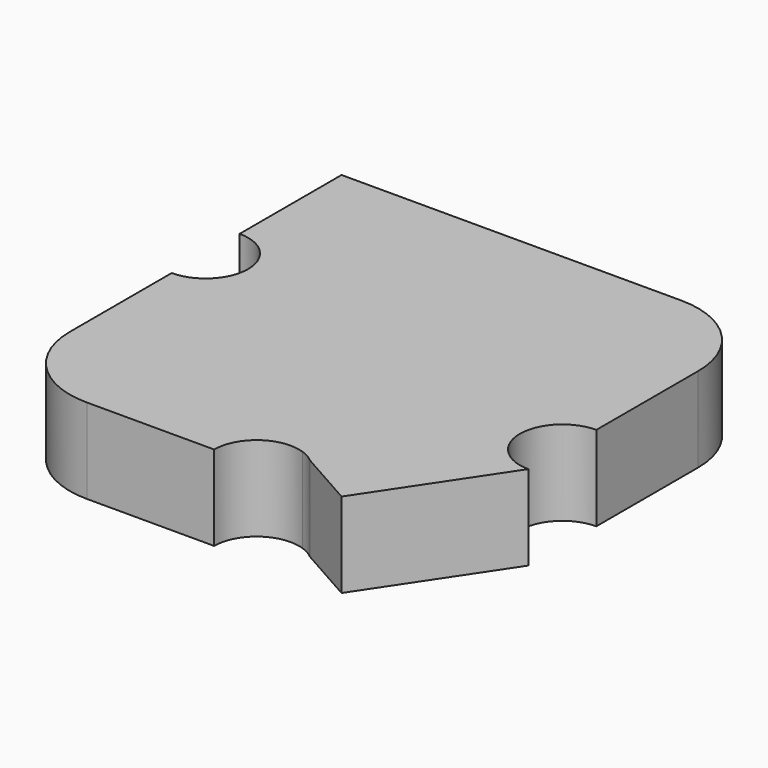
from build123d import *

# Parameters (mm, degrees)
F1_DEPTH = 10


with BuildPart() as f1:
    # F0 (on Top) → F1 (new body)
    with BuildSketch(Plane.XY):
        with BuildLine():
            ThreePointArc((25, 15), (22.071068, 22.071068), (15, 25))
            Line((15, 25), (-25, 25))
            Line((-25, 25), (-25, 10))
            ThreePointArc((-25, 10), (-20, 5), (-25, 0))
            Line((-25, 0), (-25, -15))
            ThreePointArc((-25, -15), (-22.071068, -22.071068), (-15, -25))
            Line((-15, -25), (0, -25))
            ThreePointArc((0, -25), (2.080642, -20.94077), (6.590941, -20.259862))
            ThreePointArc((6.590941, -20.259862), (7.455256, -20.644347), (8.231687, -21.184741))
            Line((8.231687, -21.184741), (15, -25))
            Line((15, -25), (25, -10))
            ThreePointArc((25, -10), (20, -5), (25, 0))
            Line((25, 0), (25, 15))
        make_face()
    extrude(amount=F1_DEPTH)


solid = f1.part
